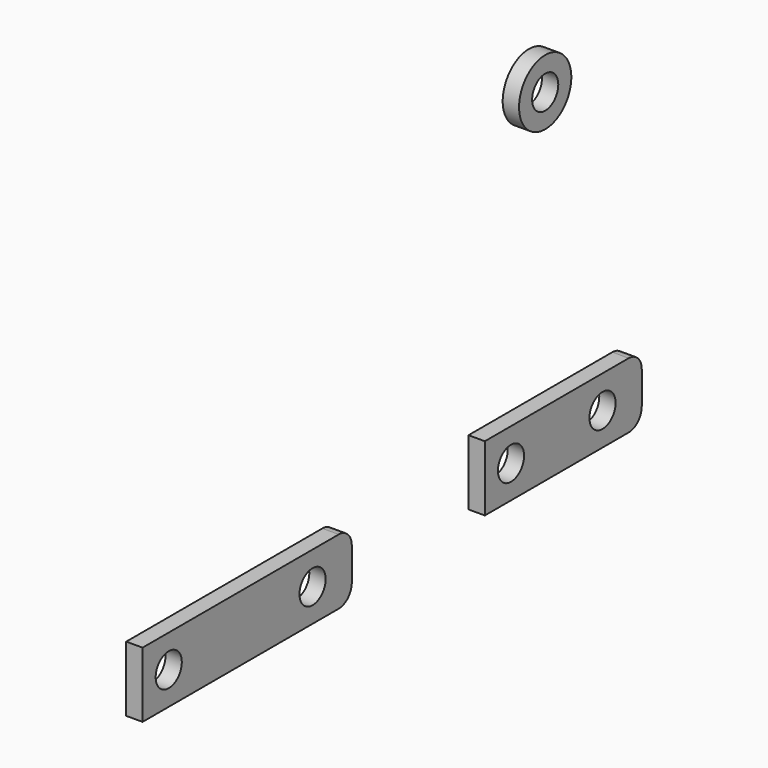
from build123d import *

# Parameters (mm, degrees)
F0_R     = 5
F0_R_2   = 10
F1_DEPTH = 5


with BuildPart() as f1:
    # F0 (on Right) → F1 (new body)
    with BuildSketch(Plane.YZ):
        with BuildLine():
            Line((-92.708919, -259.196477), (-147.708919, -259.196477))
            Line((-147.708919, -259.196477), (-147.708919, -279.196477))
            Line((-147.708919, -279.196477), (-92.708919, -279.196477))
            ThreePointArc((-92.708919, -279.196477), (-89.173385, -277.732011), (-87.708919, -274.196477))
            Line((-87.708919, -274.196477), (-87.708919, -264.196477))
            ThreePointArc((-87.708919, -264.196477), (-89.173385, -260.660943), (-92.708919, -259.196477))
        make_face()
        with Locations((-137.708919, -269.196477)):
            Circle(F0_R, mode=Mode.SUBTRACT)
        with Locations((-102.708919, -269.196477)):
            Circle(F0_R, mode=Mode.SUBTRACT)
        with BuildLine():
            Line((-203.584141, -261.584541), (-278.584141, -261.584541))
            Line((-278.584141, -261.584541), (-278.584141, -281.584541))
            Line((-278.584141, -281.584541), (-203.584141, -281.584541))
            ThreePointArc((-203.584141, -281.584541), (-200.048607, -280.120075), (-198.584141, -276.584541))
            Line((-198.584141, -276.584541), (-198.584141, -266.584541))
            ThreePointArc((-198.584141, -266.584541), (-200.048607, -263.049007), (-203.584141, -261.584541))
        make_face()
        with Locations((-268.584141, -271.584541)):
            Circle(F0_R, mode=Mode.SUBTRACT)
        with Locations((-213.584141, -271.584541)):
            Circle(F0_R, mode=Mode.SUBTRACT)
        with Locations((-124.633111, -174.571499)):
            Circle(F0_R_2)
        with Locations((-124.633111, -174.571499)):
            Circle(F0_R, mode=Mode.SUBTRACT)
    extrude(amount=F1_DEPTH)


solid = f1.part
